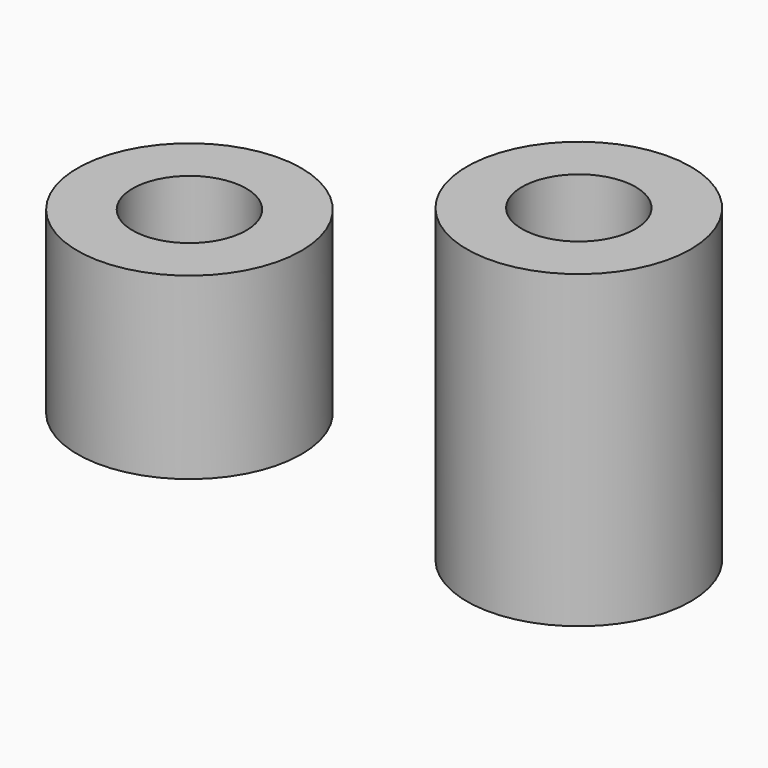
from build123d import *

# Parameters (mm, degrees)
F2_R     = 3.25
F2_R_2   = 1.65
F3_DEPTH = 5.2
F4_DEPTH = 9


with BuildPart() as f3:
    # F2 (on Top) → F3 (new body)
    with BuildSketch(Plane.XY):
        with Locations((-4.0178522468, 5.4211369716)):
            Circle(F2_R)
        with Locations((-4.0178522468, 5.4211369716)):
            Circle(F2_R_2, mode=Mode.SUBTRACT)
    extrude(amount=F3_DEPTH)


with BuildPart() as f4:
    # F2 (on Top) → F4 (new body)
    with BuildSketch(Plane.XY):
        with Locations((7.386542391, 5.2941194735)):
            Circle(F2_R)
        with Locations((7.386542391, 5.2941194735)):
            Circle(F2_R_2, mode=Mode.SUBTRACT)
    extrude(amount=F4_DEPTH)


solid = Compound([f3.part, f4.part])
